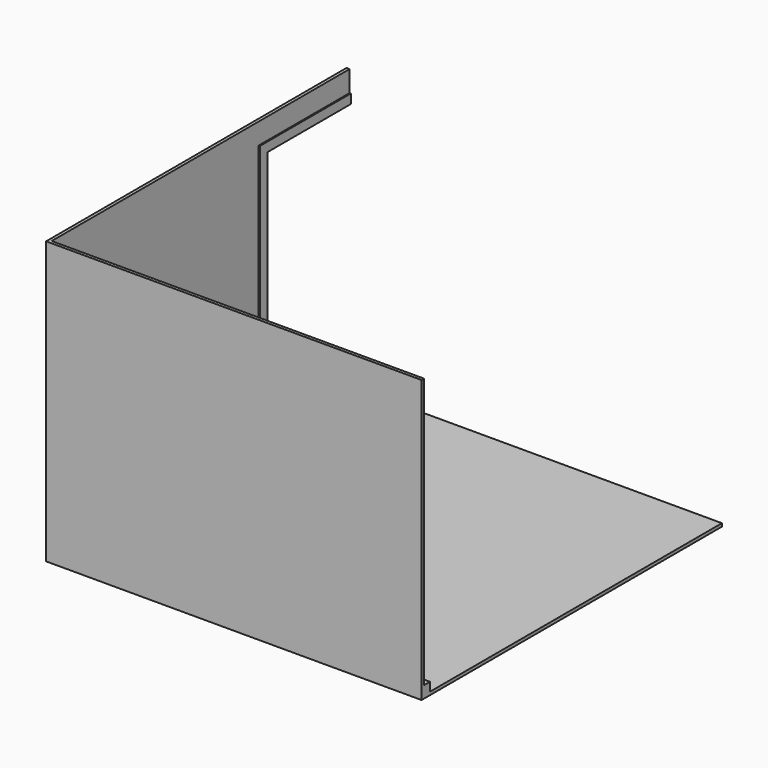
from build123d import *

# Parameters (mm, degrees)
F0_W      = 3000
F0_H      = 3000
F1_DEPTH  = 25
F2_W      = 3000
F2_H      = 60
F3_DEPTH  = 70
F4_W      = 3000
F4_H      = 2175
F4_H_2    = 95
F5_DEPTH  = 25
F7_DEPTH  = 25
F8_W      = 840
F8_H      = 2000
F9_DEPTH  = 25
F10_DEPTH = 10


with BuildPart() as f1:
    # F0 (on Top) → F1 (new body)
    with BuildSketch(Plane.XY):
        with Locations((1500, 1500)):
            Rectangle(F0_W, F0_H)
    extrude(amount=F1_DEPTH)

    # F2 (on face) → F3 (join)
    with BuildSketch(Plane.XY.offset(25)):
        with Locations((1500, 30)):
            Rectangle(F2_W, F2_H)
    extrude(amount=F3_DEPTH)

    # F4 (on face) → F5 (join)
    with BuildSketch(Plane.XZ):
        with Locations((1500, 1182.5)):
            Rectangle(F4_W, F4_H)
        with Locations((1500, 47.5)):
            Rectangle(F4_W, F4_H_2)
    extrude(amount=F5_DEPTH)

    # F6 (on face) → F7 (join)
    with BuildSketch(Plane(origin=(0, 0, 0), x_dir=(0, -1, 0), z_dir=(-1, 0, 0))):
        Polygon((-3000, 2270), (-3000, 25), (-60, 25), (-60, 95), (0, 95), (0, 2270), align=None)
        Polygon((-3000, 0), (25, 0), (25, 2270), (0, 2270), (0, 95), (-60, 95), (-60, 25), (-3000, 25), align=None)
    extrude(amount=F7_DEPTH)

    # F8 (on face) → F9 (cut)
    with BuildSketch(Plane.YZ):
        with Locations((2580, 1025)):
            Rectangle(F8_W, F8_H)
    extrude(amount=-F9_DEPTH, mode=Mode.SUBTRACT)

    # F8 (on face) → F10 (join)
    with BuildSketch(Plane.YZ):
        Polygon((2085, 25), (2160, 25), (2160, 2025), (3000, 2025), (3000, 2100), (2085, 2100), align=None)
    extrude(amount=F10_DEPTH)


solid = f1.part
